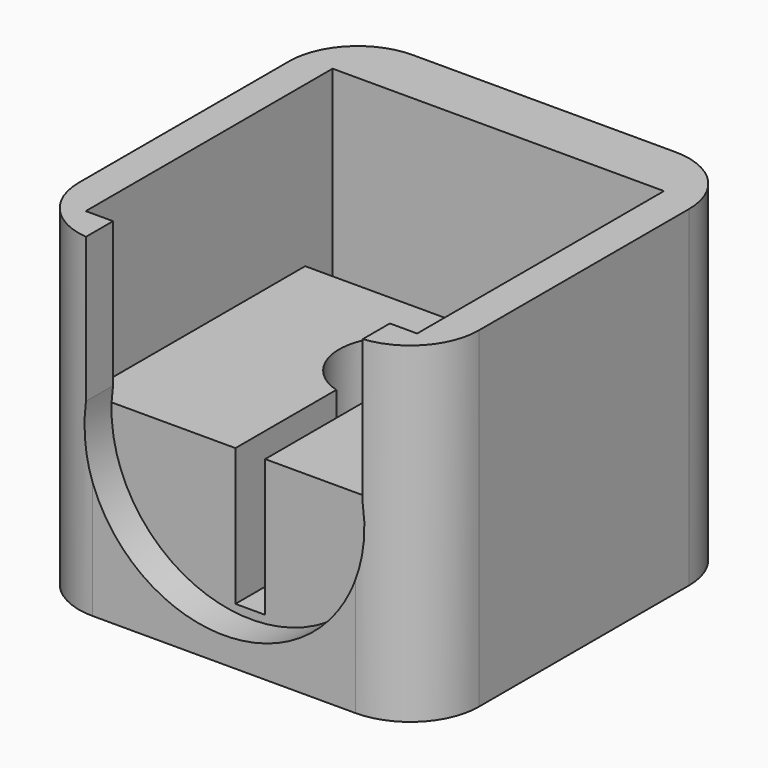
from build123d import *

# Parameters (mm, degrees)
F1_DEPTH  = 1.5
F2_W      = 13.5
F2_H      = 14.5
F2_W_2    = 1.5
F3_DEPTH  = 1.5
F4_W      = 1.5
F4_H      = 14.5
F4_W_2    = 13.5
F5_DEPTH  = 1.5
F6_W      = 16
F6_H      = 14.5
F6_W_2    = 1.5
F7_DEPTH  = 2.5
F8_W      = 14.5
F8_H      = 13.5
F9_DEPTH  = 1.5
F10_W     = 12
F10_H     = 6
F11_DEPTH = 14.5
F12_W     = 1.3
F12_H     = 12
F13_DEPTH = 6
F14_R     = 2.5
F14_R_2   = 1.6
F15_DEPTH = 13
F16_DEPTH = 14.5010001
F17_R     = 3


with BuildPart() as f1:
    # F0 (on Front) → F1 (new body)
    with BuildSketch(Plane.XZ):
        with BuildLine():
            Line((-6.0567391277, 7.25), (-7.25, 7.25))
            Line((-7.25, 7.25), (-7.25, -7.25))
            Line((-7.25, -7.25), (7.25, -7.25))
            Line((7.25, -7.25), (7.25, 7.25))
            Line((7.25, 7.25), (6.0567391277, 7.25))
            Line((6.0567391277, 7.25), (6.0567391277, 0.9118860342))
            add(Edge.make_bspline(
                [(6.125, 0), (6.125, 0.4584979124), (6.0567391277, 0.9118860342)],
                knots=[0, 0, 0, 0.1494348984, 0.1494348984, 0.1494348984], degree=2, weights=[1, 0.9972099498, 1]))
            add(Edge.make_bspline(
                [(-6.0567391277, 0.9118860342), (-7.0394373604, -5.6151871016), (-0.4572186802, -6.1079109423), (6.125, -6.6006347829), (6.125, 0)],
                knots=[2.9921577552, 2.9921577552, 2.9921577552, 4.6376715312, 4.6376715312, 6.2831853072, 6.2831853072, 6.2831853072], degree=2, weights=[1, 0.6802029301, 1, 0.6802029301, 1]))
            Line((-6.0567391277, 0.9118860342), (-6.0567391277, 7.25))
        make_face()
    extrude(amount=F1_DEPTH)

    # F2 (on face) → F3 (join)
    with BuildSketch(Plane.YZ.offset(7.25)):
        with Locations((6.75, 0)):
            Rectangle(F2_W, F2_H)
        with Locations((-0.75, 0)):
            Rectangle(F2_W_2, F2_H)
    extrude(amount=F3_DEPTH)

    # F4 (on face) → F5 (join)
    with BuildSketch(Plane(origin=(-7.25, 0, 0), x_dir=(0, -1, 0), z_dir=(-1, 0, 0))):
        with Locations((0.75, 0)):
            Rectangle(F4_W, F4_H)
        with Locations((-6.75, 0)):
            Rectangle(F4_W_2, F4_H)
    extrude(amount=F5_DEPTH)

    # F6 (on face) → F7 (join)
    with BuildSketch(Plane(origin=(0, 13.5, 0), x_dir=(-1, 0, 0), z_dir=(0, 1, 0))):
        with Locations((-0.75, 0)):
            Rectangle(F6_W, F6_H)
        with Locations((8, 0)):
            Rectangle(F6_W_2, F6_H)
    extrude(amount=F7_DEPTH)

    # F8 (on face) → F9 (join)
    with BuildSketch(Plane(origin=(0, 0, -7.25), x_dir=(1, 0, 0), z_dir=(0, 0, -1))):
        with Locations((0, -6.75)):
            Rectangle(F8_W, F8_H)
    extrude(amount=-F9_DEPTH)

    # F10 (on face) → F11 (join, through all)
    with BuildSketch(Plane.YZ.offset(-7.25)):
        with Locations((6, -2.75)):
            Rectangle(F10_W, F10_H)
    extrude(amount=F11_DEPTH)

    # F12 (on face) → F13 (cut, through all)
    with BuildSketch(Plane.XY.offset(0.25)):
        with Locations((-0.051082634, 6)):
            Rectangle(F12_W, F12_H)
    extrude(amount=-F13_DEPTH, mode=Mode.SUBTRACT)

    # F14 (on face) → F15 (cut, through all)
    with BuildSketch(Plane.XY.offset(7.25)):
        with Locations((0, 7.9200456385)):
            Circle(F14_R)
        with Locations((0, 7.9200456385)):
            Circle(F14_R_2, mode=Mode.SUBTRACT)
    extrude(amount=-F15_DEPTH, mode=Mode.SUBTRACT)

    # F14 (on face) → F16 (cut, through all)
    with BuildSketch(Plane.XY.offset(7.25)):
        with Locations((0, 7.9200456385)):
            Circle(F14_R_2)
    extrude(amount=-F16_DEPTH, mode=Mode.SUBTRACT)

    # F17
    f17_edges = [f1.edges().sort_by_distance(p)[0] for p in [
        (8.75, -1.5, 0),
        (-8.75, -1.5, 0),
        (-8.75, 16, 0),
        (8.75, 16, 0),
    ]]
    fillet(f17_edges, radius=F17_R)


solid = f1.part
